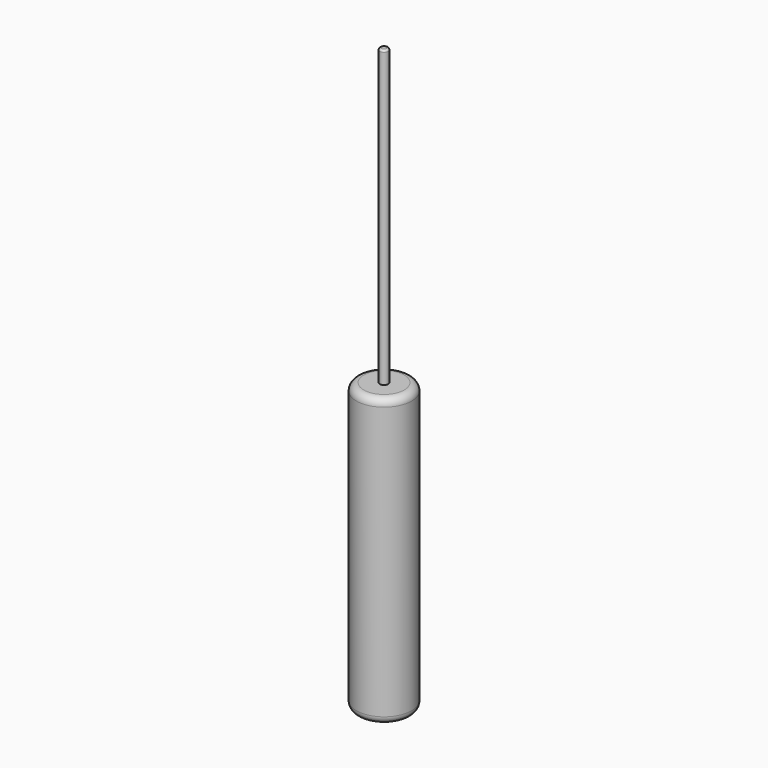
from build123d import *

# Parameters (mm, degrees)
F0_R     = 9.525
F1_DEPTH = 99.06
F2_R     = 1.4605
F3_DEPTH = 101.6
F4_R     = 0.635
F5_R     = 2.54
F6_R     = 2.54


with BuildPart() as f1:
    # F0 (on Top) → F1 (new body)
    with BuildSketch(Plane.XY):
        Circle(F0_R)
    extrude(amount=F1_DEPTH)

    # F2 (on face) → F3 (join)
    with BuildSketch(Plane.XY.offset(99.06)):
        Circle(F2_R)
    extrude(amount=F3_DEPTH)

    # F4
    f4_edges = [f1.edges().sort_by_distance(p)[0] for p in [
        (-1.4605, 0, 200.66),
    ]]
    fillet(f4_edges, radius=F4_R)

    # F5
    f5_edges = [f1.edges().sort_by_distance(p)[0] for p in [
        (-9.525, 0, 0),
    ]]
    fillet(f5_edges, radius=F5_R)

    # F6
    f6_edges = [f1.edges().sort_by_distance(p)[0] for p in [
        (-9.525, 0, 99.06),
    ]]
    fillet(f6_edges, radius=F6_R)


solid = f1.part
